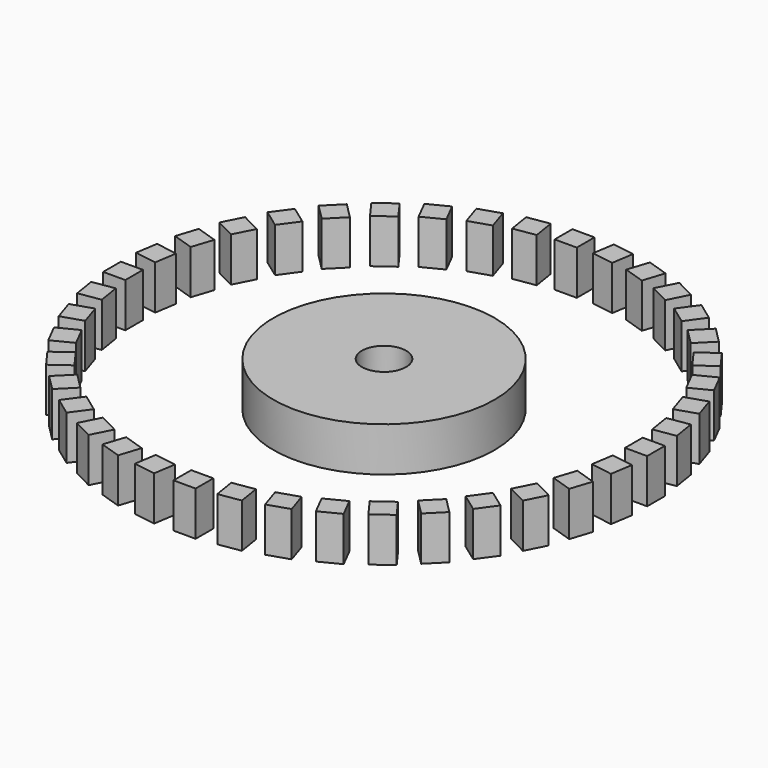
from build123d import *

# Parameters (mm, degrees)
F0_R     = 25
F0_R_2   = 5
F1_DEPTH = 10
F2_W     = 5
F2_H     = 5
F3_DEPTH = 10
F4_COUNT = 40


with BuildPart() as f1:
    # F0 (on Top) → F1 (new body)
    with BuildSketch(Plane.XY):
        Circle(F0_R)
        Circle(F0_R_2, mode=Mode.SUBTRACT)
    extrude(amount=F1_DEPTH)


with BuildPart() as f3:
    # F2 (on Top) → F3 (new body)
    with BuildSketch(Plane.XY):
        with Locations((56.936821, 2.5)):
            Rectangle(F2_W, F2_H)
    extrude(amount=F3_DEPTH)


with BuildPart() as f4_1:
    # F4: instance of F3
    add(f3.part.rotate(Axis((0, 0, 0), (0, 0, 1)), 1 * 360 / F4_COUNT))


with BuildPart() as f4_2:
    # F4: instance of F3
    add(f3.part.rotate(Axis((0, 0, 0), (0, 0, 1)), 2 * 360 / F4_COUNT))


with BuildPart() as f4_3:
    # F4: instance of F3
    add(f3.part.rotate(Axis((0, 0, 0), (0, 0, 1)), 3 * 360 / F4_COUNT))


with BuildPart() as f4_4:
    # F4: instance of F3
    add(f3.part.rotate(Axis((0, 0, 0), (0, 0, 1)), 4 * 360 / F4_COUNT))


with BuildPart() as f4_5:
    # F4: instance of F3
    add(f3.part.rotate(Axis((0, 0, 0), (0, 0, 1)), 5 * 360 / F4_COUNT))


with BuildPart() as f4_6:
    # F4: instance of F3
    add(f3.part.rotate(Axis((0, 0, 0), (0, 0, 1)), 6 * 360 / F4_COUNT))


with BuildPart() as f4_7:
    # F4: instance of F3
    add(f3.part.rotate(Axis((0, 0, 0), (0, 0, 1)), 7 * 360 / F4_COUNT))


with BuildPart() as f4_8:
    # F4: instance of F3
    add(f3.part.rotate(Axis((0, 0, 0), (0, 0, 1)), 8 * 360 / F4_COUNT))


with BuildPart() as f4_9:
    # F4: instance of F3
    add(f3.part.rotate(Axis((0, 0, 0), (0, 0, 1)), 9 * 360 / F4_COUNT))


with BuildPart() as f4_10:
    # F4: instance of F3
    add(f3.part.rotate(Axis((0, 0, 0), (0, 0, 1)), 10 * 360 / F4_COUNT))


with BuildPart() as f4_11:
    # F4: instance of F3
    add(f3.part.rotate(Axis((0, 0, 0), (0, 0, 1)), 11 * 360 / F4_COUNT))


with BuildPart() as f4_12:
    # F4: instance of F3
    add(f3.part.rotate(Axis((0, 0, 0), (0, 0, 1)), 12 * 360 / F4_COUNT))


with BuildPart() as f4_13:
    # F4: instance of F3
    add(f3.part.rotate(Axis((0, 0, 0), (0, 0, 1)), 13 * 360 / F4_COUNT))


with BuildPart() as f4_14:
    # F4: instance of F3
    add(f3.part.rotate(Axis((0, 0, 0), (0, 0, 1)), 14 * 360 / F4_COUNT))


with BuildPart() as f4_15:
    # F4: instance of F3
    add(f3.part.rotate(Axis((0, 0, 0), (0, 0, 1)), 15 * 360 / F4_COUNT))


with BuildPart() as f4_16:
    # F4: instance of F3
    add(f3.part.rotate(Axis((0, 0, 0), (0, 0, 1)), 16 * 360 / F4_COUNT))


with BuildPart() as f4_17:
    # F4: instance of F3
    add(f3.part.rotate(Axis((0, 0, 0), (0, 0, 1)), 17 * 360 / F4_COUNT))


with BuildPart() as f4_18:
    # F4: instance of F3
    add(f3.part.rotate(Axis((0, 0, 0), (0, 0, 1)), 18 * 360 / F4_COUNT))


with BuildPart() as f4_19:
    # F4: instance of F3
    add(f3.part.rotate(Axis((0, 0, 0), (0, 0, 1)), 19 * 360 / F4_COUNT))


with BuildPart() as f4_20:
    # F4: instance of F3
    add(f3.part.rotate(Axis((0, 0, 0), (0, 0, 1)), 20 * 360 / F4_COUNT))


with BuildPart() as f4_21:
    # F4: instance of F3
    add(f3.part.rotate(Axis((0, 0, 0), (0, 0, 1)), 21 * 360 / F4_COUNT))


with BuildPart() as f4_22:
    # F4: instance of F3
    add(f3.part.rotate(Axis((0, 0, 0), (0, 0, 1)), 22 * 360 / F4_COUNT))


with BuildPart() as f4_23:
    # F4: instance of F3
    add(f3.part.rotate(Axis((0, 0, 0), (0, 0, 1)), 23 * 360 / F4_COUNT))


with BuildPart() as f4_24:
    # F4: instance of F3
    add(f3.part.rotate(Axis((0, 0, 0), (0, 0, 1)), 24 * 360 / F4_COUNT))


with BuildPart() as f4_25:
    # F4: instance of F3
    add(f3.part.rotate(Axis((0, 0, 0), (0, 0, 1)), 25 * 360 / F4_COUNT))


with BuildPart() as f4_26:
    # F4: instance of F3
    add(f3.part.rotate(Axis((0, 0, 0), (0, 0, 1)), 26 * 360 / F4_COUNT))


with BuildPart() as f4_27:
    # F4: instance of F3
    add(f3.part.rotate(Axis((0, 0, 0), (0, 0, 1)), 27 * 360 / F4_COUNT))


with BuildPart() as f4_28:
    # F4: instance of F3
    add(f3.part.rotate(Axis((0, 0, 0), (0, 0, 1)), 28 * 360 / F4_COUNT))


with BuildPart() as f4_29:
    # F4: instance of F3
    add(f3.part.rotate(Axis((0, 0, 0), (0, 0, 1)), 29 * 360 / F4_COUNT))


with BuildPart() as f4_30:
    # F4: instance of F3
    add(f3.part.rotate(Axis((0, 0, 0), (0, 0, 1)), 30 * 360 / F4_COUNT))


with BuildPart() as f4_31:
    # F4: instance of F3
    add(f3.part.rotate(Axis((0, 0, 0), (0, 0, 1)), 31 * 360 / F4_COUNT))


with BuildPart() as f4_32:
    # F4: instance of F3
    add(f3.part.rotate(Axis((0, 0, 0), (0, 0, 1)), 32 * 360 / F4_COUNT))


with BuildPart() as f4_33:
    # F4: instance of F3
    add(f3.part.rotate(Axis((0, 0, 0), (0, 0, 1)), 33 * 360 / F4_COUNT))


with BuildPart() as f4_34:
    # F4: instance of F3
    add(f3.part.rotate(Axis((0, 0, 0), (0, 0, 1)), 34 * 360 / F4_COUNT))


with BuildPart() as f4_35:
    # F4: instance of F3
    add(f3.part.rotate(Axis((0, 0, 0), (0, 0, 1)), 35 * 360 / F4_COUNT))


with BuildPart() as f4_36:
    # F4: instance of F3
    add(f3.part.rotate(Axis((0, 0, 0), (0, 0, 1)), 36 * 360 / F4_COUNT))


with BuildPart() as f4_37:
    # F4: instance of F3
    add(f3.part.rotate(Axis((0, 0, 0), (0, 0, 1)), 37 * 360 / F4_COUNT))


with BuildPart() as f4_38:
    # F4: instance of F3
    add(f3.part.rotate(Axis((0, 0, 0), (0, 0, 1)), 38 * 360 / F4_COUNT))


with BuildPart() as f4_39:
    # F4: instance of F3
    add(f3.part.rotate(Axis((0, 0, 0), (0, 0, 1)), 39 * 360 / F4_COUNT))


solid = Compound([f1.part, f3.part, f4_1.part, f4_2.part, f4_3.part, f4_4.part, f4_5.part, f4_6.part, f4_7.part, f4_8.part, f4_9.part, f4_10.part, f4_11.part, f4_12.part, f4_13.part, f4_14.part, f4_15.part, f4_16.part, f4_17.part, f4_18.part, f4_19.part, f4_20.part, f4_21.part, f4_22.part, f4_23.part, f4_24.part, f4_25.part, f4_26.part, f4_27.part, f4_28.part, f4_29.part, f4_30.part, f4_31.part, f4_32.part, f4_33.part, f4_34.part, f4_35.part, f4_36.part, f4_37.part, f4_38.part, f4_39.part])
